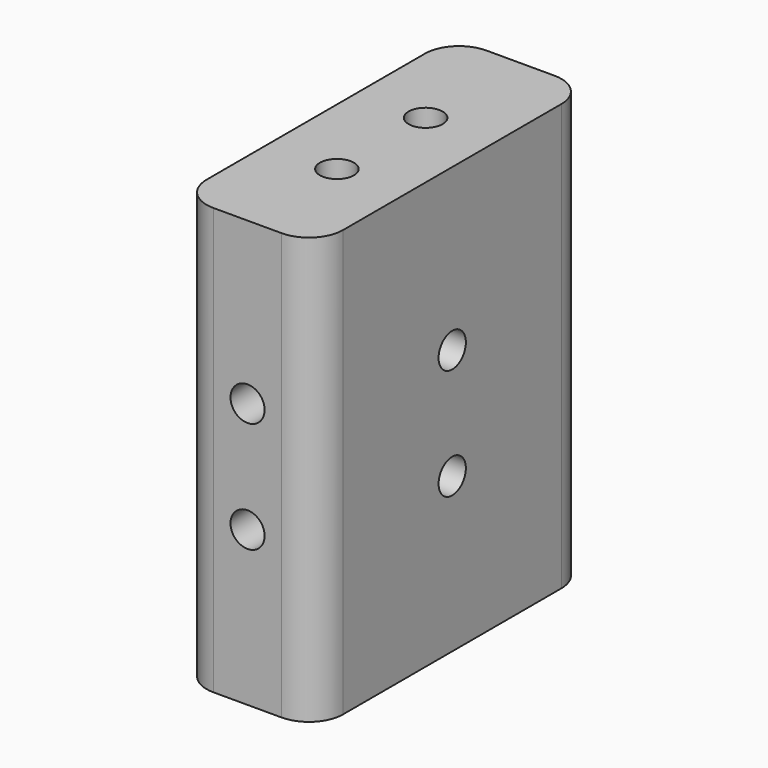
from build123d import *

# Parameters (mm, degrees)
F0_W     = 20
F0_H     = 25
F1_DEPTH = 4
F2_R     = 1
F5_DEPTH = 25
F3_R     = 1
F6_DEPTH = 5
F4_R     = 1
F7_DEPTH = 5
F8_R     = 2


with BuildPart() as f1:
    # F0 (on Right) → F1 (new body, symmetric)
    with BuildSketch(Plane.YZ):
        Rectangle(F0_W, F0_H)
    extrude(amount=F1_DEPTH, both=True)

    # F2 (on face) → F5 (cut)
    with BuildSketch(Plane.YZ.offset(4)):
        with Locations((0, 3.05)):
            Circle(F2_R)
        with Locations((0, -3.45)):
            Circle(F2_R)
    extrude(amount=-F5_DEPTH, mode=Mode.SUBTRACT)

    # F3 (on face) → F6 (cut)
    with BuildSketch(Plane.XY.offset(12.5)):
        with Locations((0, -3.45)):
            Circle(F3_R)
        with Locations((0, 3.05)):
            Circle(F3_R)
    extrude(amount=-F6_DEPTH, mode=Mode.SUBTRACT)

    # F4 (on face) → F7 (cut)
    with BuildSketch(Plane.XZ.offset(10)):
        with Locations((0, 3.05)):
            Circle(F4_R)
        with Locations((0, -3.45)):
            Circle(F4_R)
    extrude(amount=-F7_DEPTH, mode=Mode.SUBTRACT)

    # F8
    f8_edges = [f1.edges().sort_by_distance(p)[0] for p in [
        (4, -10, 0),
        (-4, -10, 0),
        (4, 10, 0),
        (-4, 10, 0),
    ]]
    fillet(f8_edges, radius=F8_R)


solid = f1.part
